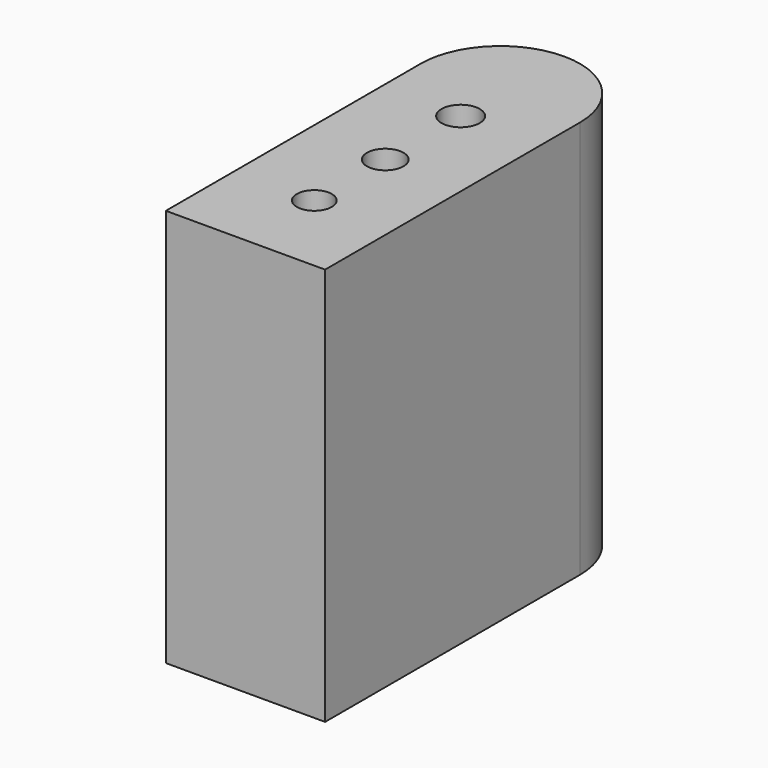
from build123d import *

# Parameters (mm, degrees)
F0_R     = 1.1
F0_R_2   = 1.15
F0_R_3   = 1.2
F1_DEPTH = 25


with BuildPart() as f1:
    # F0 (on Top) → F1 (new body)
    with BuildSketch(Plane.XY):
        with BuildLine():
            Line((-15.000001, 29.342657), (-15.000001, 9.342657))
            Line((-15.000001, 9.342657), (-5.000001, 9.342657))
            Line((-5.000001, 9.342657), (-5.000001, 29.342657))
            ThreePointArc((-5.000001, 29.342657), (-6.464467, 32.878191), (-10.000001, 34.342657))
            ThreePointArc((-10.000001, 34.342657), (-13.535535, 32.878191), (-15.000001, 29.342657))
        make_face()
        with Locations((-10.000001, 14.746606)):
            Circle(F0_R, mode=Mode.SUBTRACT)
        with Locations((-10.000001, 20.312991)):
            Circle(F0_R_2, mode=Mode.SUBTRACT)
        with Locations((-10.000001, 26.228078)):
            Circle(F0_R_3, mode=Mode.SUBTRACT)
    extrude(amount=F1_DEPTH)


solid = f1.part
